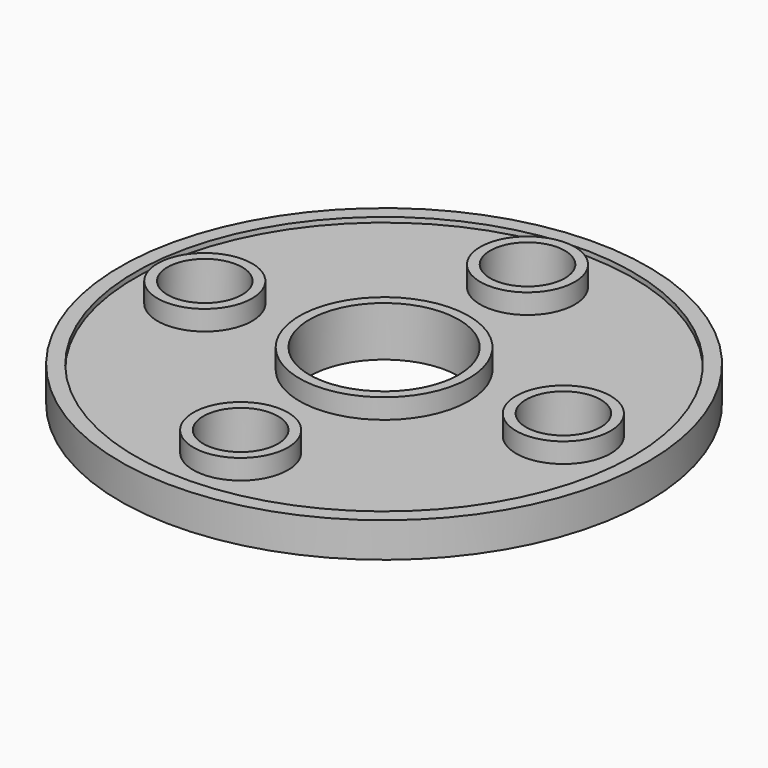
from build123d import *

# Parameters (mm, degrees)
F0_R     = 53
F0_R_2   = 50
F1_DEPTH = 7
F0_R_3   = 9.5
F0_R_4   = 7.5
F0_R_5   = 17
F0_R_6   = 15
F2_DEPTH = 10
F3_DEPTH = 6


with BuildPart() as f1:
    # F0 (on Top) → F1 (new body)
    with BuildSketch(Plane.XY):
        Circle(F0_R)
        Circle(F0_R_2, mode=Mode.SUBTRACT)
    extrude(amount=F1_DEPTH)


with BuildPart() as f2:
    # F0 (on Top) → F2 (new body)
    with BuildSketch(Plane.XY):
        with Locations((36, 0)):
            Circle(F0_R_3)
        with Locations((36, 0)):
            Circle(F0_R_4, mode=Mode.SUBTRACT)
        with Locations((-36, 0)):
            Circle(F0_R_3)
        with Locations((-36, 0)):
            Circle(F0_R_4, mode=Mode.SUBTRACT)
        with Locations((0, -36)):
            Circle(F0_R_3)
        with Locations((0, -36)):
            Circle(F0_R_4, mode=Mode.SUBTRACT)
        with Locations((0, 36)):
            Circle(F0_R_3)
        with Locations((0, 36)):
            Circle(F0_R_4, mode=Mode.SUBTRACT)
        Circle(F0_R_5)
        Circle(F0_R_6, mode=Mode.SUBTRACT)
    extrude(amount=F2_DEPTH)


with BuildPart() as f3:
    # F0 (on Top) → F3 (new body)
    with BuildSketch(Plane.XY):
        Circle(F0_R_2)
        with Locations((0, -36)):
            Circle(F0_R_3, mode=Mode.SUBTRACT)
        with Locations((-36, 0)):
            Circle(F0_R_3, mode=Mode.SUBTRACT)
        Circle(F0_R_5, mode=Mode.SUBTRACT)
        with Locations((36, 0)):
            Circle(F0_R_3, mode=Mode.SUBTRACT)
        with Locations((0, 36)):
            Circle(F0_R_3, mode=Mode.SUBTRACT)
    extrude(amount=F3_DEPTH)


solid = Compound([f1.part, f2.part, f3.part])
